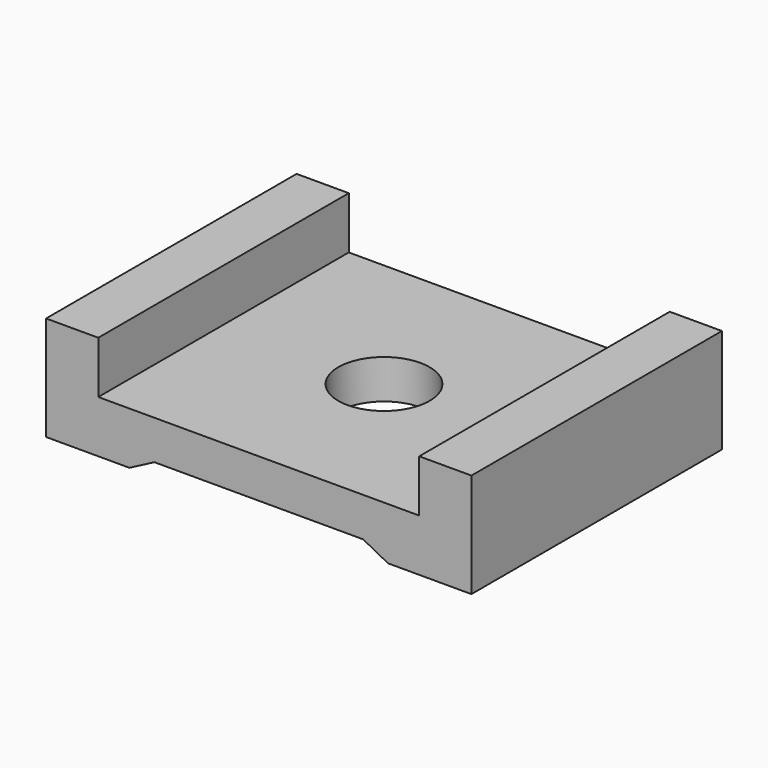
from build123d import *

# Parameters (mm, degrees)
PAD_DEPTH    = 12
SKETCH001_R  = 1.75
POCKET_DEPTH = 5


with BuildPart() as part:
    # Sketch → Pad (new body)
    with BuildSketch(Plane.XZ):
        Polygon((-6.15, 0), (6.15, 0), (6.15, 2), (8.15, 2), (8.15, -2), (4.953939, -2), (4, -1.5), (-4, -1.5), (-4.953939, -2), (-8.15, -2), (-8.15, 2), (-6.15, 2), align=None)
    extrude(amount=PAD_DEPTH)

    # Sketch001 (on Face1 of Pad) → Pocket (cut)
    with BuildSketch(Plane(origin=(0, 0, 0), x_dir=(-1, 0, 0), z_dir=(0, 0, 1))):
        with Locations((0, 6)):
            Circle(SKETCH001_R)
    extrude(amount=-POCKET_DEPTH, mode=Mode.SUBTRACT)


solid = part.part
